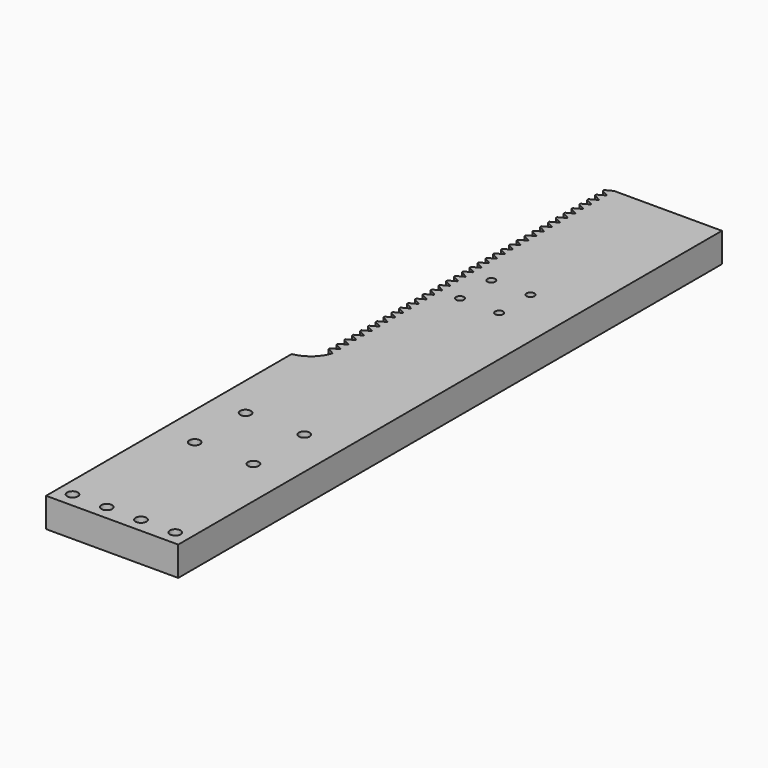
from build123d import *

# Parameters (mm, degrees)
PAD010_DEPTH  = 6
SKETCH038_R   = 1.1
HOLE011_DEPTH = 25
SKETCH039_R   = 1.1
HOLE012_DEPTH = 25
SKETCH052_R   = 0.8
HOLE019_DEPTH = 25


with BuildPart() as lift:
    # Sketch037 → Pad010 (new body)
    with BuildSketch(Plane.XY):
        with BuildLine():
            Line((-32.57, 26.255), (-32.57, 25.925))
            Line((-32.57, 25.925), (-34, 25.165))
            Line((-34, 25.165), (-34, 25.015))
            Line((-34, 25.015), (-32.57, 24.255))
            Line((-32.57, 24.255), (-32.57, 23.925))
            Line((-32.57, 23.925), (-34, 23.165))
            Line((-34, 23.165), (-34, 23.015))
            Line((-34, 23.015), (-32.57, 22.255))
            Line((-32.57, 22.255), (-32.57, 21.925))
            Line((-32.57, 21.925), (-34, 21.165))
            Line((-34, 21.165), (-34, 21.015))
            Line((-34, 21.015), (-32.57, 20.255))
            Line((-32.57, 20.255), (-32.57, 19.925))
            Line((-32.57, 19.925), (-34, 19.165))
            Line((-34, 19.165), (-34, 19.015))
            Line((-34, 19.015), (-32.57, 18.255))
            Line((-32.57, 18.255), (-32.57, 17.925))
            Line((-32.57, 17.925), (-34, 17.165))
            Line((-34, 17.165), (-34, 17.015))
            Line((-34, 17.015), (-32.57, 16.255))
            Line((-32.57, 16.255), (-32.57, 15.925))
            Line((-32.57, 15.925), (-34, 15.165))
            Line((-34, 15.165), (-34, 15.015))
            Line((-34, 15.015), (-32.57, 14.255))
            Line((-32.57, 14.255), (-32.57, 13.925))
            Line((-32.57, 13.925), (-34, 13.165))
            Line((-34, 13.165), (-34, 13.015))
            Line((-34, 13.015), (-32.57, 12.255))
            Line((-32.57, 12.255), (-32.57, 11.925))
            Line((-32.57, 11.925), (-34, 11.165))
            Line((-34, 11.165), (-34, 11.015))
            Line((-34, 11.015), (-32.57, 10.255))
            Line((-32.57, 10.255), (-32.57, 9.925))
            Line((-32.57, 9.925), (-34, 9.165))
            Line((-34, 9.165), (-34, 9.015))
            Line((-34, 9.015), (-32.57, 8.255))
            Line((-32.57, 8.255), (-32.57, 7.925))
            Line((-32.57, 7.925), (-34, 7.165))
            Line((-34, 7.165), (-34, 7.015))
            Line((-34, 7.015), (-32.57, 6.255))
            Line((-32.57, 6.255), (-32.57, 5.925))
            Line((-32.57, 5.925), (-34, 5.165))
            Line((-34, 5.165), (-34, 5.015))
            Line((-34, 5.015), (-32.57, 4.255))
            Line((-32.57, 4.255), (-32.57, 3.925))
            Line((-32.57, 3.925), (-34, 3.165))
            Line((-34, 3.165), (-34, 3.015))
            Line((-34, 3.015), (-32.57, 2.255))
            Line((-32.57, 2.255), (-32.57, 1.925))
            Line((-32.57, 1.925), (-34, 1.165))
            Line((-34, 1.165), (-34, 1.015))
            Line((-34, 1.015), (-32.57, 0.255))
            Line((-32.57, 0.255), (-32.57, -0.075))
            Line((-32.57, -0.075), (-34, -0.835))
            Line((-34, -0.835), (-34, -0.985))
            Line((-34, -0.985), (-32.57, -1.745))
            Line((-32.57, -1.745), (-32.57, -2.075))
            Line((-32.57, -2.075), (-34, -2.835))
            Line((-34, -2.835), (-34, -2.985))
            Line((-34, -2.985), (-32.57, -3.745))
            Line((-32.57, -3.745), (-32.57, -4.075))
            Line((-32.57, -4.075), (-34, -4.835))
            Line((-34, -4.835), (-34, -4.985))
            Line((-34, -4.985), (-32.57, -5.745))
            Line((-32.57, -5.745), (-32.57, -6.075))
            Line((-32.57, -6.075), (-34, -6.835))
            Line((-34, -6.835), (-34, -6.985))
            Line((-34, -6.985), (-32.57, -7.745))
            Line((-32.57, -7.745), (-32.57, -8.075))
            Line((-32.57, -8.075), (-34, -8.835))
            Line((-34, -8.835), (-34, -8.985))
            Line((-34, -8.985), (-32.57, -9.745))
            Line((-32.57, -9.745), (-32.57, -10.075))
            Line((-32.57, -10.075), (-34, -10.835))
            Line((-34, -10.835), (-34, -10.985))
            Line((-34, -10.985), (-32.57, -11.745))
            Line((-32.57, -11.745), (-32.57, -12.075))
            Line((-32.57, -12.075), (-34, -12.835))
            Line((-34, -12.835), (-34, -12.985))
            Line((-34, -12.985), (-32.57, -13.745))
            Line((-32.57, -13.745), (-32.57, -14.075))
            Line((-32.57, -14.075), (-34, -14.835))
            Line((-34, -14.835), (-34, -14.985))
            Line((-34, -14.985), (-32.57, -15.745))
            Line((-32.57, -15.745), (-32.57, -16.075))
            Line((-32.57, -16.075), (-34, -16.835))
            Line((-34, -16.835), (-34, -16.985))
            Line((-34, -16.985), (-32.57, -17.745))
            Line((-32.57, -17.745), (-32.57, -18.075))
            Line((-32.57, -18.075), (-34, -18.835))
            Line((-34, -18.835), (-34, -18.985))
            Line((-34, -18.985), (-32.57, -19.745))
            Line((-32.57, -19.745), (-32.57, -20.075))
            Line((-32.57, -20.075), (-34, -20.835))
            Line((-34, -20.835), (-34, -20.985))
            Line((-34, -20.985), (-32.57, -21.745))
            Line((-32.57, -21.745), (-32.57, -22.075))
            Line((-32.57, -22.075), (-34, -22.835))
            Line((-34, -22.835), (-34, -22.985))
            Line((-34, -22.985), (-32.57, -23.745))
            Line((-32.57, -23.745), (-32.57, -24.075))
            Line((-32.57, -24.075), (-34, -24.835))
            Line((-34, -24.835), (-34, -24.985))
            Line((-34, -24.985), (-32.57, -25.745))
            Line((-32.57, -25.745), (-32.57, -26.075))
            Line((-32.57, -26.075), (-34, -26.835))
            Line((-34, -26.835), (-34, -26.985))
            Line((-34, -26.985), (-32.57, -27.745))
            Line((-32.57, -27.745), (-32.57, -28.075))
            Line((-32.57, -28.075), (-34, -28.835))
            Line((-34, -28.835), (-34, -28.985))
            Line((-34, -28.985), (-32.57, -29.745))
            Line((-32.57, -29.745), (-32.57, -30.075))
            Line((-32.57, -30.075), (-34, -30.835))
            Line((-34, -30.835), (-34, -30.985))
            Line((-34, -30.985), (-32.57, -31.745))
            Line((-32.57, -31.745), (-32.57, -32.075))
            Line((-32.57, -32.075), (-34, -32.835))
            Line((-34, -32.835), (-34, -32.985))
            Line((-34, -32.985), (-32.57, -33.745))
            Line((-32.57, -33.745), (-32.57, -34.075))
            Line((-32.57, -34.075), (-34, -34.835))
            Line((-34, -34.835), (-34, -34.985))
            Line((-34, -34.985), (-32.57, -35.745))
            Line((-32.57, -35.745), (-32.57, -36.075))
            Line((-32.57, -36.075), (-34, -36.835))
            Line((-34, -36.835), (-34, -36.985))
            Line((-34, -36.985), (-32.57, -37.745))
            Line((-32.57, -37.745), (-32.57, -38.075))
            Line((-32.57, -38.075), (-34, -38.835))
            Line((-34, -38.835), (-34, -38.985))
            Line((-34, -38.985), (-32.57, -39.745))
            Line((-32.57, -39.745), (-32.57, -40.075))
            Line((-32.57, -40.075), (-34, -40.835))
            Line((-34, -40.835), (-34, -40.985))
            Line((-34, -40.985), (-32.57, -41.745))
            Line((-32.57, -41.745), (-32.57, -42.075))
            Line((-32.57, -42.075), (-34, -42.835))
            Line((-34, -42.835), (-34, -42.985))
            Line((-34, -42.985), (-32.57, -43.745))
            Line((-32.57, -43.745), (-32.57, -44.075))
            Line((-32.57, -44.075), (-34, -44.835))
            ThreePointArc((-34, -44.835), (-32.121614, -47.676332), (-29.038942, -49.125))
            Line((-29.038942, -49.125), (-29.038942, -111.835))
            Line((-56.038942, -111.835), (-29.038942, -111.835))
            Line((-56.038942, 27.015), (-56.038942, -111.835))
            Line((-34, 27.015), (-56.038942, 27.015))
            Line((-34, 27.015), (-32.57, 26.255))
        make_face()
    extrude(amount=PAD010_DEPTH)

    # Sketch038 (on Face150 of Pad010) → Hole011 (cut)
    with BuildSketch(Plane.XY.offset(6)):
        with Locations((-48, -69.585)):
            Circle(SKETCH038_R)
        with Locations((-36, -69.585)):
            Circle(SKETCH038_R)
        with Locations((-48, -82.585)):
            Circle(SKETCH038_R)
        with Locations((-36, -82.585)):
            Circle(SKETCH038_R)
    extrude(amount=-HOLE011_DEPTH, mode=Mode.SUBTRACT)

    # Sketch039 (on Face5 of Hole011) → Hole012 (cut)
    with BuildSketch(Plane.XY.offset(6)):
        with Locations((-53.038942, -108.835)):
            Circle(SKETCH039_R)
        with Locations((-46.038942, -108.835)):
            Circle(SKETCH039_R)
        with Locations((-39.038942, -108.835)):
            Circle(SKETCH039_R)
        with Locations((-32.038942, -108.835)):
            Circle(SKETCH039_R)
    extrude(amount=-HOLE012_DEPTH, mode=Mode.SUBTRACT)

    # Sketch052 (on Face5 of Hole012) → Hole019 (cut)
    with BuildSketch(Plane.XY.offset(6)):
        with Locations((-46, -9.33)):
            Circle(SKETCH052_R)
        with Locations((-38, -9.33)):
            Circle(SKETCH052_R)
        with Locations((-46, -17.33)):
            Circle(SKETCH052_R)
        with Locations((-38, -17.33)):
            Circle(SKETCH052_R)
    extrude(amount=-HOLE019_DEPTH, mode=Mode.SUBTRACT)


with BuildPart() as part_mirroring:
    # Part__Mirroring: instance of Lift
    add(lift.part.mirror(Plane(origin=(0, 0, 0), x_dir=(0, -1, 0), z_dir=(1, 0, 0))))


with BuildPart() as part_mirroring_1:
    # Part__Mirroring placement: moved
    add(part_mirroring.part.moved(Location((-56, 0, 16))))


solid = part_mirroring_1.part
